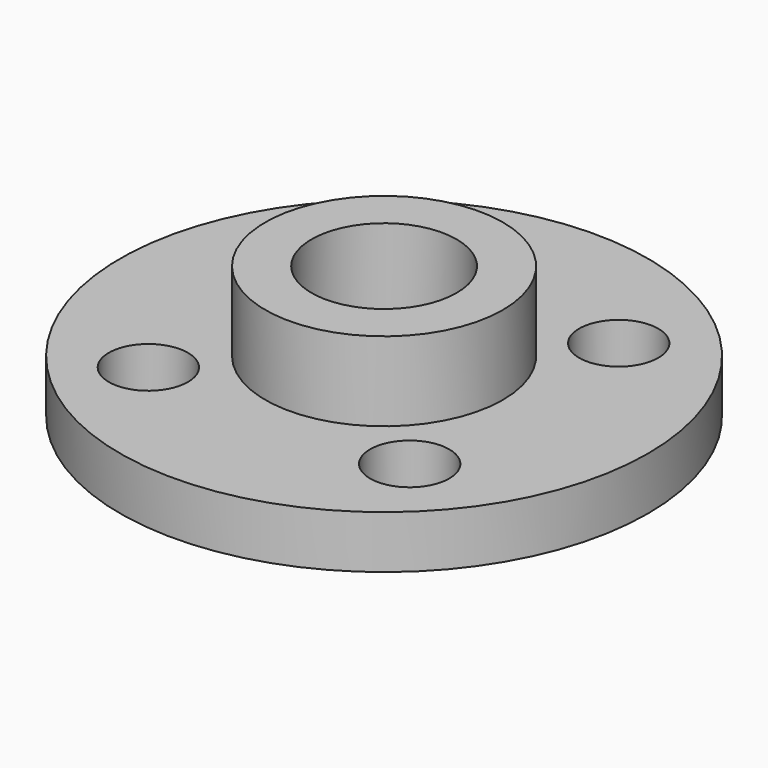
from build123d import *

# Parameters (mm, degrees)
F0_R     = 10
F0_R_2   = 1.5
F1_DEPTH = 2
F3_R     = 2.75
F3_R_2   = 1.5
F4_DEPTH = 0.5
F3_R_3   = 4.5
F5_DEPTH = 3


with BuildPart() as f1:
    # F0 (on Top) → F1 (new body)
    with BuildSketch(Plane.XY):
        Circle(F0_R)
        with Locations((-4.992548, -4.922625)):
            Circle(F0_R_2, mode=Mode.SUBTRACT)
        with Locations((4.906947, -4.922625)):
            Circle(F0_R_2, mode=Mode.SUBTRACT)
        with Locations((-4.992548, 4.97687)):
            Circle(F0_R_2, mode=Mode.SUBTRACT)
        Circle(F0_R_2, mode=Mode.SUBTRACT)
        with Locations((4.906947, 4.97687)):
            Circle(F0_R_2, mode=Mode.SUBTRACT)
    extrude(amount=F1_DEPTH)

    # F3 (on face) → F4 (cut)
    with BuildSketch(Plane.XY.offset(2)):
        Circle(F3_R)
        Circle(F3_R_2, mode=Mode.SUBTRACT)
    extrude(amount=-F4_DEPTH, mode=Mode.SUBTRACT)

    # F3 (on face) → F5 (join)
    with BuildSketch(Plane.XY.offset(2)):
        Circle(F3_R_3)
        Circle(F3_R, mode=Mode.SUBTRACT)
    extrude(amount=F5_DEPTH)


solid = f1.part
